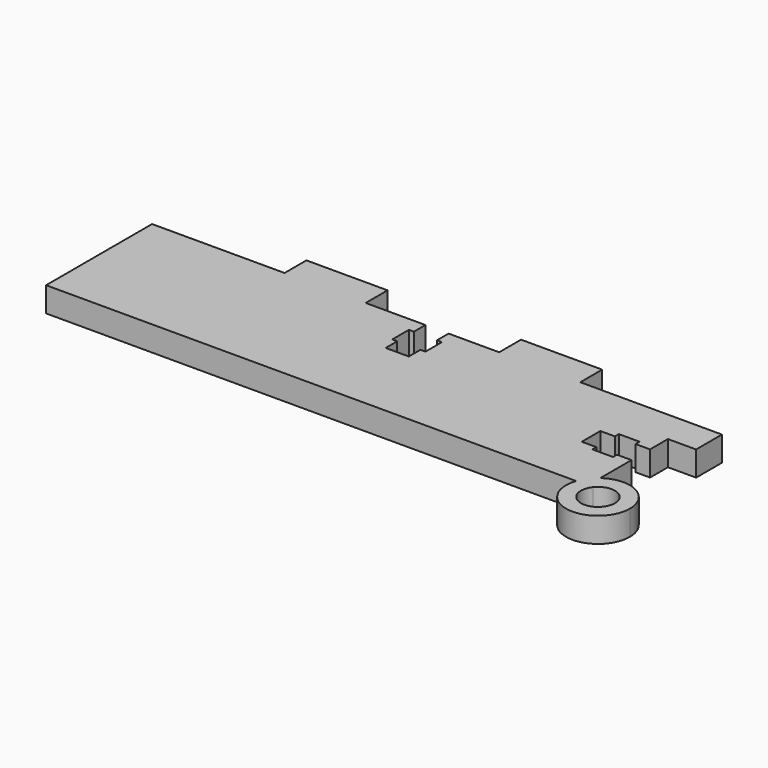
from build123d import *

# Parameters (mm, degrees)
F0_W     = 3.4
F0_H     = 3.9
F0_W_2   = 9.8
F0_H_2   = 3.3
F1_DEPTH = 3


with BuildPart() as f1:
    # F0 (on Top) → F1 (new body)
    with BuildSketch(Plane.XY):
        with BuildLine():
            Line((31.01, 2.45), (31.01, 6.35))
            Line((31.01, 6.35), (17.31, 6.35))
            Line((17.31, 6.35), (7.51, 6.35))
            Line((7.51, 6.35), (1.4, 6.35))
            Line((1.4, 6.35), (1.4, 4.6))
            Line((1.4, 4.6), (2, 4.6))
            Line((2, 4.6), (2, 2.1))
            Line((2, 2.1), (1.4, 2.1))
            Line((1.4, 2.1), (1.4, 0.35))
            Line((1.4, 0.35), (0, 0.35))
            Line((0, 0.35), (-1.4, 0.35))
            Line((-1.4, 0.35), (-1.4, 2.1))
            Line((-1.4, 2.1), (-2, 2.1))
            Line((-2, 2.1), (-2, 4.6))
            Line((-2, 4.6), (-1.4, 4.6))
            Line((-1.4, 4.6), (-1.4, 6.35))
            Line((-1.4, 6.35), (-8.61, 6.35))
            Line((-8.61, 6.35), (-18.41, 6.35))
            Line((-18.41, 6.35), (-34.41, 6.35))
            Line((-34.41, 6.35), (-34.41, -9.65))
            Line((-34.41, -9.65), (29.5985717088, -9.65))
            ThreePointArc((29.5985717088, -9.65), (30.1561812602, -8.5951004404), (31.01, -7.7615927607))
            Line((31.01, -7.7615927607), (31.01, -6.35))
            Line((31.01, -6.35), (31.01, -3.05))
            Line((31.01, -3.05), (29.26, -3.05))
            Line((29.26, -3.05), (29.26, -3.65))
            Line((29.26, -3.65), (26.76, -3.65))
            Line((26.76, -3.65), (26.76, -3.05))
            Line((26.76, -3.05), (25.01, -3.05))
            Line((25.01, -3.05), (25.01, -1.65))
            Line((25.01, -1.65), (25.01, -0.25))
            Line((25.01, -0.25), (26.76, -0.25))
            Line((26.76, -0.25), (26.76, 0.35))
            Line((26.76, 0.35), (29.26, 0.35))
            Line((29.26, 0.35), (29.26, -0.25))
            Line((29.26, -0.25), (31.01, -0.25))
            Line((31.01, -0.25), (31.01, 2.45))
        make_face()
        with Locations((32.71, 4.4)):
            Rectangle(F0_W, F0_H)
        with Locations((12.41, 8)):
            Rectangle(F0_W_2, F0_H_2)
        with Locations((-13.51, 8)):
            Rectangle(F0_W_2, F0_H_2)
        with BuildLine():
            Line((34.41, -9.216669967), (34.41, -7.232085061))
            ThreePointArc((34.41, -7.232085061), (32.6475520268, -7.0958568114), (31.01, -7.7615927607))
            Line((31.01, -7.7615927607), (31.01, -9.65))
            Line((31.01, -9.65), (31.6151923191, -9.65))
            ThreePointArc((31.6151923191, -9.65), (32.9259040974, -8.8742053994), (34.41, -9.216669967))
        make_face()
        with BuildLine():
            Line((31.01, -9.65), (31.01, -7.7615927607))
            ThreePointArc((31.01, -7.7615927607), (30.1561812602, -8.5951004404), (29.5985717088, -9.65))
            Line((29.5985717088, -9.65), (31.01, -9.65))
        make_face()
        with BuildLine():
            ThreePointArc((37.09, -10.9), (36.3486170559, -8.6286567851), (34.41, -7.232085061))
            Line((34.41, -7.232085061), (34.41, -9.216669967))
            ThreePointArc((34.41, -9.216669967), (35.0567278277, -9.9502631944), (35.29, -10.9))
            ThreePointArc((35.29, -10.9), (32.5798317434, -12.8407931041), (31.6151923191, -9.65))
            Line((31.6151923191, -9.65), (31.01, -9.65))
            Line((31.01, -9.65), (29.5985717088, -9.65))
            ThreePointArc((29.5985717088, -9.65), (32.6063592978, -14.6974991061), (37.09, -10.9))
        make_face()
    extrude(amount=F1_DEPTH)


solid = f1.part
